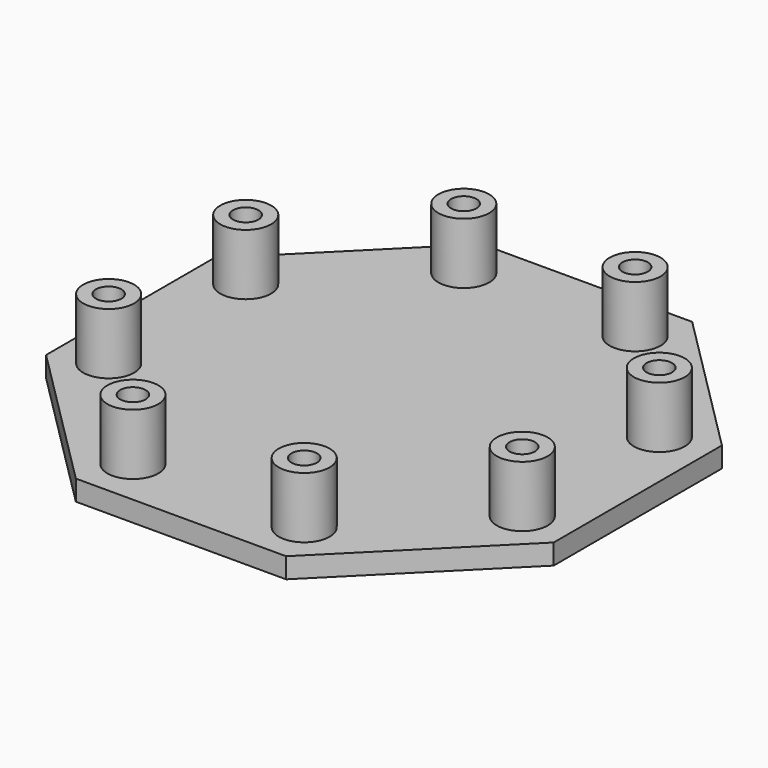
from build123d import *

# Parameters (mm, degrees)
PAD_DEPTH             = 2
SKETCH001_R           = 2.5
PAD001_DEPTH          = 6
SKETCH002_R           = 1.25
POCKET_DEPTH          = 8
POLARPATTERN_COUNT    = 8
POLARPATTERN001_COUNT = 8


with BuildPart() as part:
    # Sketch → Pad (new body)
    with BuildSketch(Plane.XY):
        Polygon((24.944747, -10.332453), (24.944747, 10.332453), (10.332453, 24.944747), (-10.332453, 24.944747), (-24.944747, 10.332453), (-24.944747, -10.332453), (-10.332453, -24.944747), (10.332453, -24.944747), align=None)
    extrude(amount=PAD_DEPTH)

    # Sketch001 (on Face10 of Pad) → Pad001 (join)
    with BuildSketch(Plane.XY.offset(2)):
        with Locations((8.419036, 20.32535)):
            Circle(SKETCH001_R)
    pad001 = extrude(amount=PAD001_DEPTH)

    # Sketch002 (on Face12 of Pad001) → Pocket (cut)
    with BuildSketch(Plane.XY.offset(8)):
        with Locations((8.419036, 20.32535)):
            Circle(SKETCH002_R)
    pocket = extrude(amount=-POCKET_DEPTH, mode=Mode.SUBTRACT)

    # PolarPattern: Pad001 ×8 about axis
    polarpattern_axis = Axis((0, 0, 2), (0, 0, 1))
    for i in range(1, POLARPATTERN_COUNT):
        add(pad001.rotate(polarpattern_axis, i * 360 / POLARPATTERN_COUNT))

    # PolarPattern001: Pocket ×8 about axis
    polarpattern001_axis = Axis((0, 0, 8), (0, 0, 1))
    for i in range(1, POLARPATTERN001_COUNT):
        add(pocket.rotate(polarpattern001_axis, i * 360 / POLARPATTERN001_COUNT), mode=Mode.SUBTRACT)


solid = part.part
